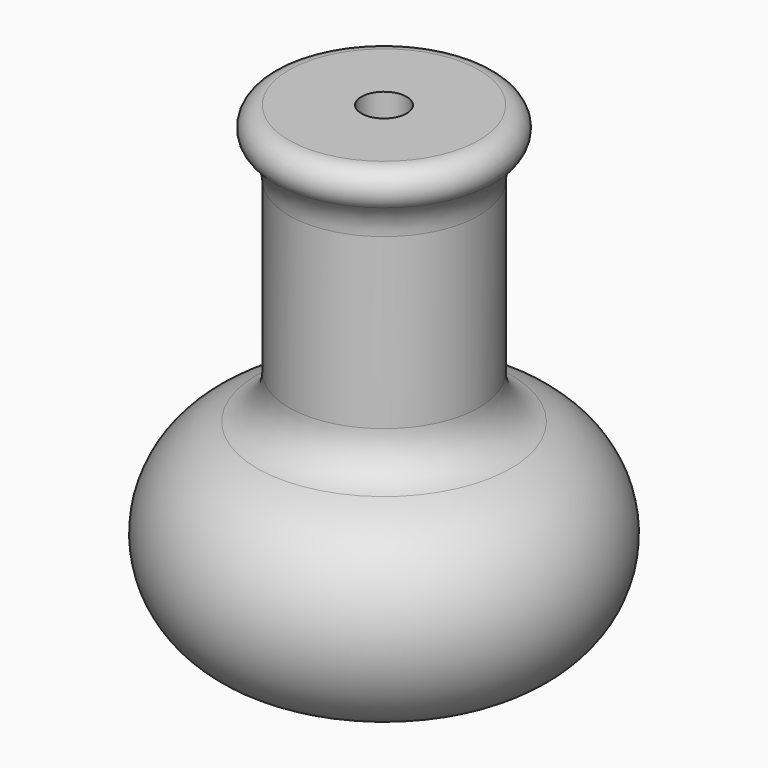
from build123d import *


with BuildPart() as f1:
    # F0 (on Front) → F1 (revolve)
    with BuildSketch(Plane.XZ):
        with BuildLine():
            Line((-2.5, -10.246764), (-2.5, 27.253236))
            Line((-2.5, 27.253236), (-2.5, 30.253236))
            Line((-2.5, 30.253236), (-10.5, 30.253236))
            ThreePointArc((-10.5, 30.253236), (-12.51754, 28.894421), (-12.016751, 26.514074))
            ThreePointArc((-12.016751, 26.514074), (-10.894772, 24.874291), (-10.5, 22.927017))
            Line((-10.5, 22.927017), (-10.5, 4.254816))
            ThreePointArc((-10.5, 4.254816), (-11.471415, 1.293312), (-14.008202, -0.517452))
            ThreePointArc((-14.008202, -0.517452), (-21.858175, -13.089471), (-10.614757, -22.746764))
            Line((-10.614757, -22.746764), (-6, -22.746764))
            ThreePointArc((-6, -22.746764), (-5.292893, -22.453871), (-5, -21.746764))
            Line((-5, -21.746764), (-5, -12.746764))
            Line((-5, -12.746764), (-2.5, -10.246764))
        make_face()
    revolve(axis=Axis((0, 0, -2.746764), (0, 0, -1)))


solid = f1.part
